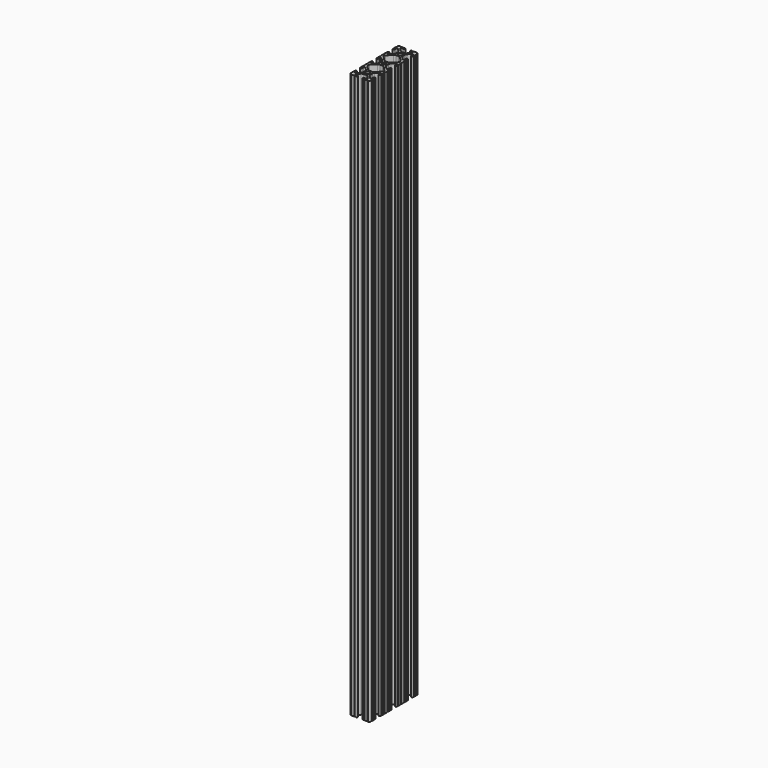
from build123d import *

# Parameters (mm, degrees)
F0_R     = 2.6035
F1_DEPTH = 706


with BuildPart() as f1:
    # F0 (on Top) → F1 (new body)
    with BuildSketch(Plane.XY):
        with BuildLine():
            Line((-122.627984, 41.510041), (-125.853784, 41.510041))
            ThreePointArc((-125.853784, 41.510041), (-126.361784, 41.002041), (-126.869784, 41.510041))
            ThreePointArc((-126.869784, 41.510041), (-128.386062, 40.892719), (-129.003384, 39.376441))
            ThreePointArc((-129.003384, 39.376441), (-128.495384, 38.868441), (-129.003384, 38.360441))
            Line((-129.003384, 38.360441), (-129.003384, 35.134641))
            ThreePointArc((-129.003384, 35.134641), (-128.495384, 34.626641), (-129.003384, 34.118641))
            Line((-129.003384, 34.118641), (-129.003384, 33.112349))
            ThreePointArc((-129.003384, 33.112349), (-127.898484, 32.007449), (-126.793584, 33.112349))
            Line((-126.793584, 33.112349), (-126.793584, 35.284836))
            ThreePointArc((-126.793584, 35.284836), (-126.166391, 36.223497), (-125.059164, 36.003256))
            Line((-125.059164, 36.003256), (-121.74182, 32.685913))
            ThreePointArc((-121.74182, 32.685913), (-121.053567, 31.655869), (-120.811884, 30.440849))
            Line((-120.811884, 30.440849), (-120.811884, 27.179234))
            ThreePointArc((-120.811884, 27.179234), (-121.053567, 25.964214), (-121.74182, 24.93417))
            Line((-121.74182, 24.93417), (-125.059164, 21.616826))
            ThreePointArc((-125.059164, 21.616826), (-126.166391, 21.396585), (-126.793584, 22.335247))
            Line((-126.793584, 22.335247), (-126.793584, 24.507733))
            ThreePointArc((-126.793584, 24.507733), (-127.898484, 25.612633), (-129.003384, 24.507733))
            Line((-129.003384, 24.507733), (-129.003384, 23.501441))
            ThreePointArc((-129.003384, 23.501441), (-128.495384, 22.993441), (-129.003384, 22.485441))
            Line((-129.003384, 22.485441), (-129.003384, 19.259641))
            ThreePointArc((-129.003384, 19.259641), (-128.495384, 18.751641), (-129.003384, 18.243641))
            Line((-129.003384, 18.243641), (-129.003384, 13.976441))
            ThreePointArc((-129.003384, 13.976441), (-128.495384, 13.468441), (-129.003384, 12.960441))
            Line((-129.003384, 12.960441), (-129.003384, 9.734641))
            ThreePointArc((-129.003384, 9.734641), (-128.495384, 9.226641), (-129.003384, 8.718641))
            Line((-129.003384, 8.718641), (-129.003384, 7.712349))
            ThreePointArc((-129.003384, 7.712349), (-127.898484, 6.607449), (-126.793584, 7.712349))
            Line((-126.793584, 7.712349), (-126.793584, 9.884836))
            ThreePointArc((-126.793584, 9.884836), (-126.166391, 10.823497), (-125.059164, 10.603256))
            Line((-125.059164, 10.603256), (-121.74182, 7.285913))
            ThreePointArc((-121.74182, 7.285913), (-121.053567, 6.255869), (-120.811884, 5.040849))
            Line((-120.811884, 5.040849), (-120.811884, 1.779234))
            ThreePointArc((-120.811884, 1.779234), (-121.053567, 0.564214), (-121.74182, -0.46583))
            Line((-121.74182, -0.46583), (-125.059164, -3.783174))
            ThreePointArc((-125.059164, -3.783174), (-126.166391, -4.003415), (-126.793584, -3.064753))
            Line((-126.793584, -3.064753), (-126.793584, -0.892267))
            ThreePointArc((-126.793584, -0.892267), (-127.898484, 0.212633), (-129.003384, -0.892267))
            Line((-129.003384, -0.892267), (-129.003384, -1.898559))
            ThreePointArc((-129.003384, -1.898559), (-128.495384, -2.406559), (-129.003384, -2.914559))
            Line((-129.003384, -2.914559), (-129.003384, -6.140359))
            ThreePointArc((-129.003384, -6.140359), (-128.495384, -6.648359), (-129.003384, -7.156359))
            Line((-129.003384, -7.156359), (-129.003384, -11.423559))
            ThreePointArc((-129.003384, -11.423559), (-128.495384, -11.931559), (-129.003384, -12.439559))
            Line((-129.003384, -12.439559), (-129.003384, -15.665359))
            ThreePointArc((-129.003384, -15.665359), (-128.495384, -16.173359), (-129.003384, -16.681359))
            Line((-129.003384, -16.681359), (-129.003384, -17.687651))
            ThreePointArc((-129.003384, -17.687651), (-127.898484, -18.792551), (-126.793584, -17.687651))
            Line((-126.793584, -17.687651), (-126.793584, -15.515164))
            ThreePointArc((-126.793584, -15.515164), (-126.166391, -14.576503), (-125.059164, -14.796744))
            Line((-125.059164, -14.796744), (-121.74182, -18.114087))
            ThreePointArc((-121.74182, -18.114087), (-121.053567, -19.144131), (-120.811884, -20.359151))
            Line((-120.811884, -20.359151), (-120.811884, -23.620766))
            ThreePointArc((-120.811884, -23.620766), (-121.053567, -24.835786), (-121.74182, -25.86583))
            Line((-121.74182, -25.86583), (-125.059164, -29.183174))
            ThreePointArc((-125.059164, -29.183174), (-126.166391, -29.403415), (-126.793584, -28.464753))
            Line((-126.793584, -28.464753), (-126.793584, -26.292267))
            ThreePointArc((-126.793584, -26.292267), (-127.898484, -25.187367), (-129.003384, -26.292267))
            Line((-129.003384, -26.292267), (-129.003384, -27.298559))
            ThreePointArc((-129.003384, -27.298559), (-128.495384, -27.806559), (-129.003384, -28.314559))
            Line((-129.003384, -28.314559), (-129.003384, -31.540359))
            ThreePointArc((-129.003384, -31.540359), (-128.495384, -32.048359), (-129.003384, -32.556359))
            ThreePointArc((-129.003384, -32.556359), (-128.386062, -34.072636), (-126.869784, -34.689959))
            ThreePointArc((-126.869784, -34.689959), (-126.361784, -34.181959), (-125.853784, -34.689959))
            Line((-125.853784, -34.689959), (-122.627984, -34.689959))
            ThreePointArc((-122.627984, -34.689959), (-122.119984, -34.181959), (-121.611984, -34.689959))
            Line((-121.611984, -34.689959), (-120.605692, -34.689959))
            ThreePointArc((-120.605692, -34.689959), (-119.500792, -33.585059), (-120.605692, -32.480159))
            Line((-120.605692, -32.480159), (-122.778179, -32.480159))
            ThreePointArc((-122.778179, -32.480159), (-123.71684, -31.852965), (-123.496599, -30.745738))
            Line((-123.496599, -30.745738), (-120.179256, -27.428395))
            ThreePointArc((-120.179256, -27.428395), (-119.149212, -26.740141), (-117.934192, -26.498459))
            Line((-117.934192, -26.498459), (-114.672577, -26.498459))
            ThreePointArc((-114.672577, -26.498459), (-113.457557, -26.740141), (-112.427513, -27.428395))
            Line((-112.427513, -27.428395), (-109.110169, -30.745738))
            ThreePointArc((-109.110169, -30.745738), (-108.889928, -31.852965), (-109.82859, -32.480159))
            Line((-109.82859, -32.480159), (-112.001076, -32.480159))
            ThreePointArc((-112.001076, -32.480159), (-113.105976, -33.585059), (-112.001076, -34.689959))
            Line((-112.001076, -34.689959), (-110.994784, -34.689959))
            ThreePointArc((-110.994784, -34.689959), (-110.486784, -34.181959), (-109.978784, -34.689959))
            Line((-109.978784, -34.689959), (-106.752984, -34.689959))
            ThreePointArc((-106.752984, -34.689959), (-106.244984, -34.181959), (-105.736984, -34.689959))
            ThreePointArc((-105.736984, -34.689959), (-104.220707, -34.072636), (-103.603384, -32.556359))
            ThreePointArc((-103.603384, -32.556359), (-104.111384, -32.048359), (-103.603384, -31.540359))
            Line((-103.603384, -31.540359), (-103.603384, -28.314559))
            ThreePointArc((-103.603384, -28.314559), (-104.111384, -27.806559), (-103.603384, -27.298559))
            Line((-103.603384, -27.298559), (-103.603384, -26.292267))
            ThreePointArc((-103.603384, -26.292267), (-104.708284, -25.187367), (-105.813184, -26.292267))
            Line((-105.813184, -26.292267), (-105.813184, -28.464753))
            ThreePointArc((-105.813184, -28.464753), (-106.440378, -29.403415), (-107.547605, -29.183174))
            Line((-107.547605, -29.183174), (-110.864948, -25.86583))
            ThreePointArc((-110.864948, -25.86583), (-111.553202, -24.835786), (-111.794884, -23.620766))
            Line((-111.794884, -23.620766), (-111.794884, -20.359151))
            ThreePointArc((-111.794884, -20.359151), (-111.553202, -19.144131), (-110.864948, -18.114087))
            Line((-110.864948, -18.114087), (-107.547605, -14.796744))
            ThreePointArc((-107.547605, -14.796744), (-106.440378, -14.576503), (-105.813184, -15.515164))
            Line((-105.813184, -15.515164), (-105.813184, -17.687651))
            ThreePointArc((-105.813184, -17.687651), (-104.708284, -18.792551), (-103.603384, -17.687651))
            Line((-103.603384, -17.687651), (-103.603384, -16.681359))
            ThreePointArc((-103.603384, -16.681359), (-104.111384, -16.173359), (-103.603384, -15.665359))
            Line((-103.603384, -15.665359), (-103.603384, -12.439559))
            ThreePointArc((-103.603384, -12.439559), (-104.111384, -11.931559), (-103.603384, -11.423559))
            Line((-103.603384, -11.423559), (-103.603384, -7.156359))
            ThreePointArc((-103.603384, -7.156359), (-104.111384, -6.648359), (-103.603384, -6.140359))
            Line((-103.603384, -6.140359), (-103.603384, -2.914559))
            ThreePointArc((-103.603384, -2.914559), (-104.111384, -2.406559), (-103.603384, -1.898559))
            Line((-103.603384, -1.898559), (-103.603384, -0.892267))
            ThreePointArc((-103.603384, -0.892267), (-104.708284, 0.212633), (-105.813184, -0.892267))
            Line((-105.813184, -0.892267), (-105.813184, -3.064753))
            ThreePointArc((-105.813184, -3.064753), (-106.440378, -4.003415), (-107.547605, -3.783174))
            Line((-107.547605, -3.783174), (-110.864948, -0.46583))
            ThreePointArc((-110.864948, -0.46583), (-111.553202, 0.564214), (-111.794884, 1.779234))
            Line((-111.794884, 1.779234), (-111.794884, 5.040849))
            ThreePointArc((-111.794884, 5.040849), (-111.553202, 6.255869), (-110.864948, 7.285913))
            Line((-110.864948, 7.285913), (-107.547605, 10.603256))
            ThreePointArc((-107.547605, 10.603256), (-106.440378, 10.823497), (-105.813184, 9.884836))
            Line((-105.813184, 9.884836), (-105.813184, 7.712349))
            ThreePointArc((-105.813184, 7.712349), (-104.708284, 6.607449), (-103.603384, 7.712349))
            Line((-103.603384, 7.712349), (-103.603384, 8.718641))
            ThreePointArc((-103.603384, 8.718641), (-104.111384, 9.226641), (-103.603384, 9.734641))
            Line((-103.603384, 9.734641), (-103.603384, 12.960441))
            ThreePointArc((-103.603384, 12.960441), (-104.111384, 13.468441), (-103.603384, 13.976441))
            Line((-103.603384, 13.976441), (-103.603384, 18.243641))
            ThreePointArc((-103.603384, 18.243641), (-104.111384, 18.751641), (-103.603384, 19.259641))
            Line((-103.603384, 19.259641), (-103.603384, 22.485441))
            ThreePointArc((-103.603384, 22.485441), (-104.111384, 22.993441), (-103.603384, 23.501441))
            Line((-103.603384, 23.501441), (-103.603384, 24.507733))
            ThreePointArc((-103.603384, 24.507733), (-104.708284, 25.612633), (-105.813184, 24.507733))
            Line((-105.813184, 24.507733), (-105.813184, 22.335247))
            ThreePointArc((-105.813184, 22.335247), (-106.440378, 21.396585), (-107.547605, 21.616826))
            Line((-107.547605, 21.616826), (-110.864948, 24.93417))
            ThreePointArc((-110.864948, 24.93417), (-111.553202, 25.964214), (-111.794884, 27.179234))
            Line((-111.794884, 27.179234), (-111.794884, 30.440849))
            ThreePointArc((-111.794884, 30.440849), (-111.553202, 31.655869), (-110.864948, 32.685913))
            Line((-110.864948, 32.685913), (-107.547605, 36.003256))
            ThreePointArc((-107.547605, 36.003256), (-106.440378, 36.223497), (-105.813184, 35.284836))
            Line((-105.813184, 35.284836), (-105.813184, 33.112349))
            ThreePointArc((-105.813184, 33.112349), (-104.708284, 32.007449), (-103.603384, 33.112349))
            Line((-103.603384, 33.112349), (-103.603384, 34.118641))
            ThreePointArc((-103.603384, 34.118641), (-104.111384, 34.626641), (-103.603384, 35.134641))
            Line((-103.603384, 35.134641), (-103.603384, 38.360441))
            ThreePointArc((-103.603384, 38.360441), (-104.111384, 38.868441), (-103.603384, 39.376441))
            ThreePointArc((-103.603384, 39.376441), (-104.220707, 40.892719), (-105.736984, 41.510041))
            ThreePointArc((-105.736984, 41.510041), (-106.244984, 41.002041), (-106.752984, 41.510041))
            Line((-106.752984, 41.510041), (-109.978784, 41.510041))
            ThreePointArc((-109.978784, 41.510041), (-110.486784, 41.002041), (-110.994784, 41.510041))
            Line((-110.994784, 41.510041), (-112.001076, 41.510041))
            ThreePointArc((-112.001076, 41.510041), (-113.105976, 40.405141), (-112.001076, 39.300241))
            Line((-112.001076, 39.300241), (-109.82859, 39.300241))
            ThreePointArc((-109.82859, 39.300241), (-108.889928, 38.673048), (-109.110169, 37.565821))
            Line((-109.110169, 37.565821), (-112.427513, 34.248477))
            ThreePointArc((-112.427513, 34.248477), (-113.457557, 33.560224), (-114.672577, 33.318541))
            Line((-114.672577, 33.318541), (-117.934192, 33.318541))
            ThreePointArc((-117.934192, 33.318541), (-119.149212, 33.560224), (-120.179256, 34.248477))
            Line((-120.179256, 34.248477), (-123.496599, 37.565821))
            ThreePointArc((-123.496599, 37.565821), (-123.71684, 38.673048), (-122.778179, 39.300241))
            Line((-122.778179, 39.300241), (-120.605692, 39.300241))
            ThreePointArc((-120.605692, 39.300241), (-119.500792, 40.405141), (-120.605692, 41.510041))
            Line((-120.605692, 41.510041), (-121.611984, 41.510041))
            ThreePointArc((-121.611984, 41.510041), (-122.119984, 41.002041), (-122.627984, 41.510041))
        make_face()
        with Locations((-116.303384, -21.989959)):
            Circle(F0_R, mode=Mode.SUBTRACT)
        with BuildLine():
            Line((-114.672577, -17.481459), (-117.934192, -17.481459))
            ThreePointArc((-117.934192, -17.481459), (-119.149212, -17.239776), (-120.179256, -16.551523))
            Line((-120.179256, -16.551523), (-125.773536, -10.957242))
            ThreePointArc((-125.773536, -10.957242), (-126.11491, -10.44634), (-126.234784, -9.843691))
            Line((-126.234784, -9.843691), (-126.234784, -8.736227))
            ThreePointArc((-126.234784, -8.736227), (-126.11491, -8.133577), (-125.773536, -7.622675))
            Line((-125.773536, -7.622675), (-120.179256, -2.028395))
            ThreePointArc((-120.179256, -2.028395), (-119.149212, -1.340141), (-117.934192, -1.098459))
            Line((-117.934192, -1.098459), (-114.672577, -1.098459))
            ThreePointArc((-114.672577, -1.098459), (-113.457557, -1.340141), (-112.427513, -2.028395))
            Line((-112.427513, -2.028395), (-106.833233, -7.622675))
            ThreePointArc((-106.833233, -7.622675), (-106.491859, -8.133577), (-106.371984, -8.736227))
            Line((-106.371984, -8.736227), (-106.371984, -9.843691))
            ThreePointArc((-106.371984, -9.843691), (-106.491859, -10.44634), (-106.833233, -10.957242))
            Line((-106.833233, -10.957242), (-112.427513, -16.551523))
            ThreePointArc((-112.427513, -16.551523), (-113.457557, -17.239776), (-114.672577, -17.481459))
        make_face(mode=Mode.SUBTRACT)
        with Locations((-116.303384, 3.410041)):
            Circle(F0_R, mode=Mode.SUBTRACT)
        with BuildLine():
            ThreePointArc((-117.934192, 7.918541), (-119.149212, 8.160224), (-120.179256, 8.848477))
            Line((-120.179256, 8.848477), (-125.773536, 14.442758))
            ThreePointArc((-125.773536, 14.442758), (-126.11491, 14.95366), (-126.234784, 15.556309))
            Line((-126.234784, 15.556309), (-126.234784, 16.663773))
            ThreePointArc((-126.234784, 16.663773), (-126.11491, 17.266423), (-125.773536, 17.777325))
            Line((-125.773536, 17.777325), (-120.179256, 23.371605))
            ThreePointArc((-120.179256, 23.371605), (-119.149212, 24.059859), (-117.934192, 24.301541))
            Line((-117.934192, 24.301541), (-114.672577, 24.301541))
            ThreePointArc((-114.672577, 24.301541), (-113.457557, 24.059859), (-112.427513, 23.371605))
            Line((-112.427513, 23.371605), (-106.833233, 17.777325))
            ThreePointArc((-106.833233, 17.777325), (-106.491859, 17.266423), (-106.371984, 16.663773))
            Line((-106.371984, 16.663773), (-106.371984, 15.556309))
            ThreePointArc((-106.371984, 15.556309), (-106.491859, 14.95366), (-106.833233, 14.442758))
            Line((-106.833233, 14.442758), (-112.427513, 8.848477))
            ThreePointArc((-112.427513, 8.848477), (-113.457557, 8.160224), (-114.672577, 7.918541))
            Line((-114.672577, 7.918541), (-117.934192, 7.918541))
        make_face(mode=Mode.SUBTRACT)
        with Locations((-116.303384, 28.810041)):
            Circle(F0_R, mode=Mode.SUBTRACT)
    extrude(amount=F1_DEPTH)


solid = f1.part
